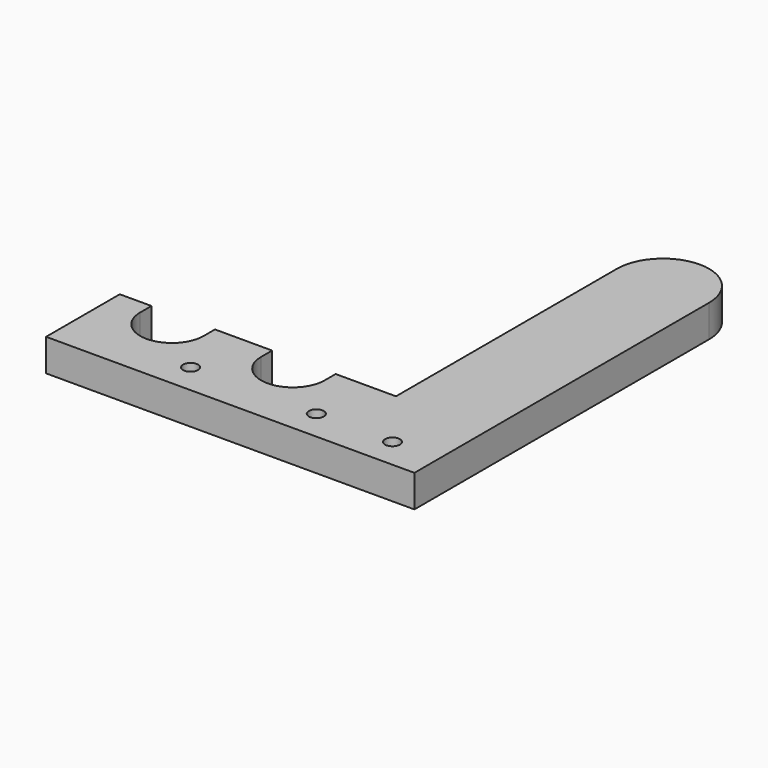
from build123d import *

# Parameters (mm, degrees)
F0_R     = 2.06375
F1_DEPTH = 8.89


with BuildPart() as f1:
    # F0 (on Top) → F1 (new body)
    with BuildSketch(Plane.XY):
        with BuildLine():
            Line((78.765246, 0), (70.916646, 0))
            Line((70.916646, 0), (70.916646, -25.4))
            Line((70.916646, -25.4), (147.116646, -25.4))
            Line((147.116646, -25.4), (172.516646, -25.4))
            Line((172.516646, -25.4), (172.516646, 76.2))
            ThreePointArc((172.516646, 76.2), (159.816646, 88.9), (147.116646, 76.2))
            Line((147.116646, 76.2), (147.116646, 0))
            Line((147.116646, 0), (130.469131, 0))
            Line((130.469131, 0), (130.469131, -3.796309))
            ThreePointArc((130.469131, -3.796309), (121.706131, -12.559309), (112.943131, -3.796309))
            Line((112.943131, -3.796309), (112.943131, 0))
            Line((112.943131, 0), (97.187999, 0))
            Line((97.187999, 0), (97.187999, -3.888491))
            ThreePointArc((97.187999, -3.888491), (88.424999, -12.651491), (79.661999, -3.888491))
            Line((79.661999, -3.888491), (79.661999, 0))
            Line((79.661999, 0), (78.765246, 0))
        make_face()
        with Locations((104.122761, -17.0815)):
            Circle(F0_R, mode=Mode.SUBTRACT)
        with Locations((138.798146, -17.0815)):
            Circle(F0_R, mode=Mode.SUBTRACT)
        with Locations((159.816646, -17.0815)):
            Circle(F0_R, mode=Mode.SUBTRACT)
    extrude(amount=F1_DEPTH)


solid = f1.part
